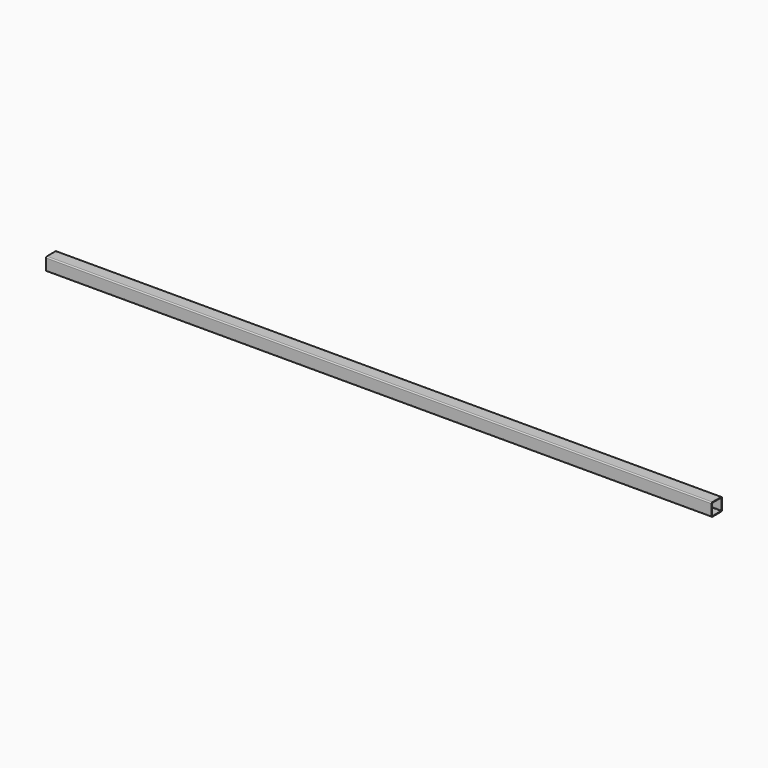
from build123d import *

# Parameters (mm, degrees)
F1_DEPTH = 3086


with BuildPart() as f1:
    # F0 (on Right) → F1 (new body)
    with BuildSketch(Plane.YZ):
        with BuildLine():
            Line((-25, -30), (25, -30))
            ThreePointArc((25, -30), (28.535534, -28.535534), (30, -25))
            Line((30, -25), (30, 25))
            ThreePointArc((30, 25), (28.535534, 28.535534), (25, 30))
            Line((25, 30), (-25, 30))
            ThreePointArc((-25, 30), (-28.535534, 28.535534), (-30, 25))
            Line((-30, 25), (-30, -25))
            ThreePointArc((-30, -25), (-28.535534, -28.535534), (-25, -30))
        make_face()
        with BuildLine():
            Line((-25, 27), (25, 27))
            ThreePointArc((25, 27), (26.414214, 26.414214), (27, 25))
            Line((27, 25), (27, -25))
            ThreePointArc((27, -25), (26.414214, -26.414214), (25, -27))
            Line((25, -27), (-25, -27))
            ThreePointArc((-25, -27), (-26.414214, -26.414214), (-27, -25))
            Line((-27, -25), (-27, 25))
            ThreePointArc((-27, 25), (-26.414214, 26.414214), (-25, 27))
        make_face(mode=Mode.SUBTRACT)
    extrude(amount=F1_DEPTH)


solid = f1.part
